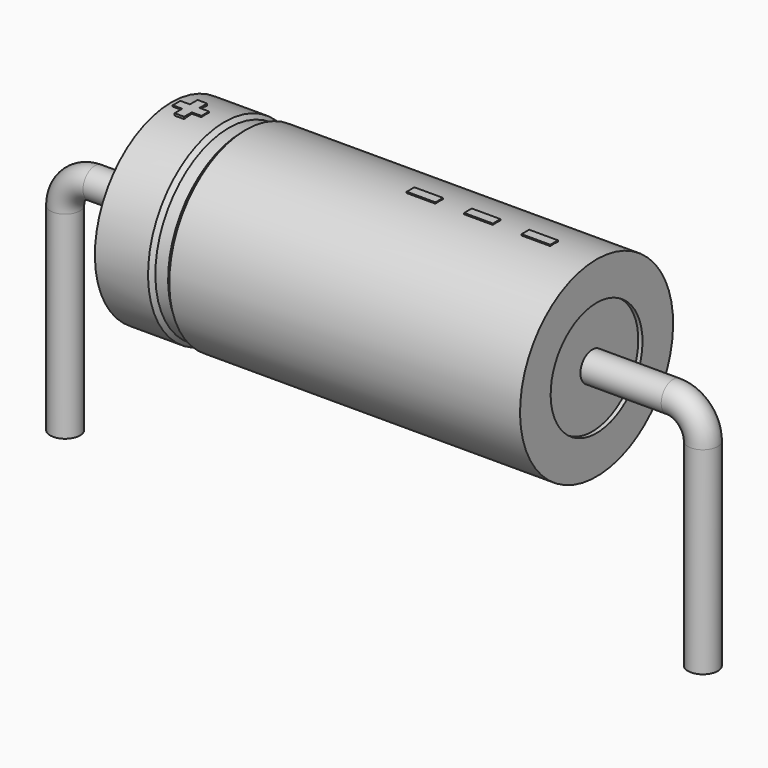
from build123d import *

# Parameters (mm, degrees)
SKETCH_R    = 0.35
SKETCH004_W = 0.675
SKETCH004_H = 0.225
PAD_DEPTH   = 2.2725


with BuildPart() as sweep_body:
    # Sweep: sweep along a path in Sketch001
    with BuildLine(Plane.XZ) as sweep_path:
        Line((0, -3), (0, 1.65))
        ThreePointArc((0, 1.65), (0.205029, 2.144979), (0.700011, 2.35))
        Line((0.700011, 2.35), (14.3, 2.35))
        ThreePointArc((14.3, 2.35), (14.794975, 2.144975), (15, 1.65))
        Line((15, 1.65), (15, -3))
    # Sketch → Sweep (sweep)
    with BuildSketch(Plane.XY.offset(-2)):
        Circle(SKETCH_R)
    sweep(path=sweep_path.line)


with BuildPart() as revolution:
    # Sketch002 → Revolution (revolve)
    with BuildSketch(Plane.XZ):
        Polygon((2.5, 4.6), (2.5, 3.7), (12.5, 3.7), (12.5, 4.6), (4.25, 4.6), (4.15, 4.51), (3.85, 4.51), (3.75, 4.6), align=None)
    revolve(axis=Axis((6.97588, 0, 2.35), (1, 0, 0)))


with BuildPart() as revolution001:
    # Sketch003 → Revolution001 (revolve)
    with BuildSketch(Plane.XZ):
        Polygon((2.6, 4.51), (3.1, 4.51), (3.1, 2.575), (11.9, 2.575), (11.9, 4.51), (12.4, 4.51), (12.4, 2.35), (2.6, 2.35), align=None)
    revolve(axis=Axis((6.97588, 0, 2.35), (1, 0, 0)))


with BuildPart() as pad:
    # Sketch004 → Pad (new body)
    with BuildSketch(Plane.XY.offset(2.35)):
        with Locations((11.1625, 0)):
            Rectangle(SKETCH004_W, SKETCH004_H)
        with Locations((9.8125, 0)):
            Rectangle(SKETCH004_W, SKETCH004_H)
        with Locations((8.4625, 0)):
            Rectangle(SKETCH004_W, SKETCH004_H)
        Polygon((2.845, 0.1125), (2.62, 0.1125), (2.62, -0.1125), (2.845, -0.1125), (2.845, -0.3375), (3.07, -0.3375), (3.07, -0.1125), (3.295, -0.1125), (3.295, 0.1125), (3.07, 0.1125), (3.07, 0.3375), (2.845, 0.3375), align=None)
    extrude(amount=PAD_DEPTH)


solid = Compound([sweep_body.part, revolution.part, revolution001.part, pad.part])
